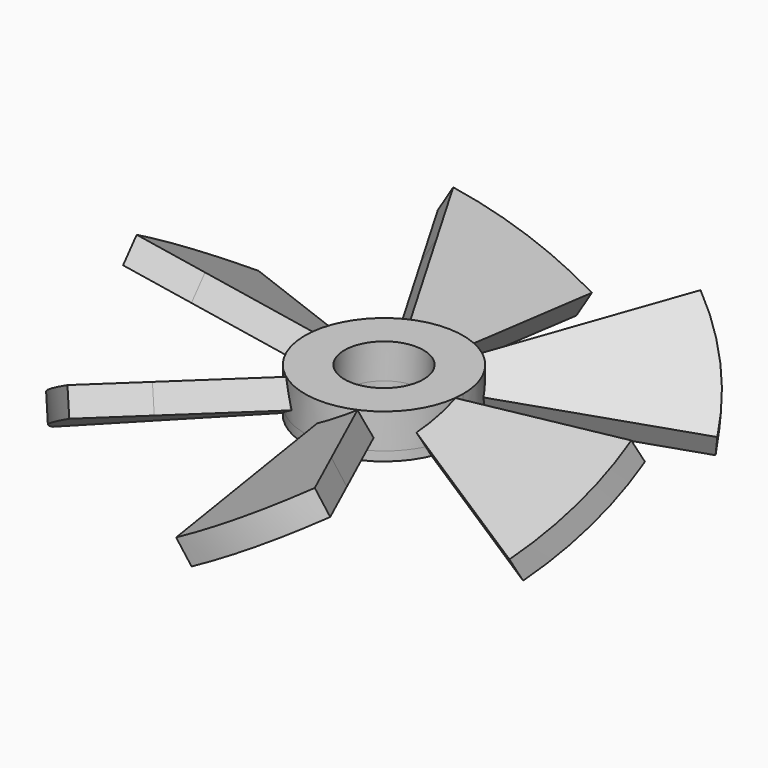
from build123d import *

# Parameters (mm, degrees)
F1_DEPTH      = 10
F4_ANGLE      = -30
F6_COUNT      = 6
F0_R          = 15
F7_DEPTH      = 13.2
F7_DEPTH_BACK = 3.5


with BuildPart() as f1:
    # F0 (on Top) → F1 (new body)
    with BuildSketch(Plane.XY):
        with BuildLine():
            Line((36.5413986146, 63.2915589802), (15, 25.9807621135))
            ThreePointArc((15, 25.9807621135), (21.2132034356, 21.2132034356), (25.9807621135, 15))
            Line((25.9807621135, 15), (86.6025403784, 50))
            ThreePointArc((86.6025403784, 50), (70.7106781187, 70.7106781187), (50, 86.6025403784))
            Line((50, 86.6025403784), (36.5413986146, 63.2915589802))
        make_face()
        with BuildLine():
            ThreePointArc((25.9807621135, 15), (21.2132034356, 21.2132034356), (15, 25.9807621135))
            Line((15, 25.9807621135), (10.982790001, 19.0227502905))
            ThreePointArc((10.982790001, 19.0227502905), (15.5320105721, 15.5320105721), (19.0227502905, 10.982790001))
            Line((19.0227502905, 10.982790001), (25.9807621135, 15))
        make_face()
    extrude(amount=F1_DEPTH)


with BuildPart() as f1_1:
    # F4: moved
    add(f1.part.rotate(Axis((41.835274435, 42.0708136254, 5), (-0.709996604, -0.7042050996, 0)), F4_ANGLE))


with BuildPart() as f6_1:
    # F6: instance of F1
    add(f1_1.part.rotate(Axis((0, 0, -5.4106004536), (0, 0, -1)), 1 * 360 / F6_COUNT))


with BuildPart() as f6_2:
    # F6: instance of F1
    add(f1_1.part.rotate(Axis((0, 0, -5.4106004536), (0, 0, -1)), 2 * 360 / F6_COUNT))


with BuildPart() as f6_3:
    # F6: instance of F1
    add(f1_1.part.rotate(Axis((0, 0, -5.4106004536), (0, 0, -1)), 3 * 360 / F6_COUNT))


with BuildPart() as f6_4:
    # F6: instance of F1
    add(f1_1.part.rotate(Axis((0, 0, -5.4106004536), (0, 0, -1)), 4 * 360 / F6_COUNT))


with BuildPart() as f6_5:
    # F6: instance of F1
    add(f1_1.part.rotate(Axis((0, 0, -5.4106004536), (0, 0, -1)), 5 * 360 / F6_COUNT))


with BuildPart() as f1_2:
    add(f1_1.part)

    add(f6_1.part)  # F7 merges F6_1

    add(f6_2.part)  # F7 merges F6_2

    add(f6_3.part)  # F7 merges F6_3

    add(f6_4.part)  # F7 merges F6_4

    add(f6_5.part)  # F7 merges F6_5
    # F0 (on Top) → F7 (join, two sides)
    with BuildSketch(Plane.XY) as f7_sk:
        with BuildLine():
            ThreePointArc((25.9807621135, 15), (21.2132034356, 21.2132034356), (15, 25.9807621135))
            Line((15, 25.9807621135), (10.982790001, 19.0227502905))
            ThreePointArc((10.982790001, 19.0227502905), (15.5320105721, 15.5320105721), (19.0227502905, 10.982790001))
            Line((19.0227502905, 10.982790001), (25.9807621135, 15))
        make_face()
        with BuildLine():
            Line((10.982790001, 19.0227502905), (15, 25.9807621135))
            ThreePointArc((15, 25.9807621135), (-25.9807621135, -15), (30, 0))
            ThreePointArc((30, 0), (28.9777747887, 7.7645713531), (25.9807621135, 15))
            Line((25.9807621135, 15), (19.0227502905, 10.982790001))
            ThreePointArc((19.0227502905, 10.982790001), (15.5320105721, 15.5320105721), (10.982790001, 19.0227502905))
        make_face()
        Circle(F0_R, mode=Mode.SUBTRACT)
    extrude(amount=F7_DEPTH)
    extrude(f7_sk.sketch, amount=-F7_DEPTH_BACK)


solid = f1_2.part
